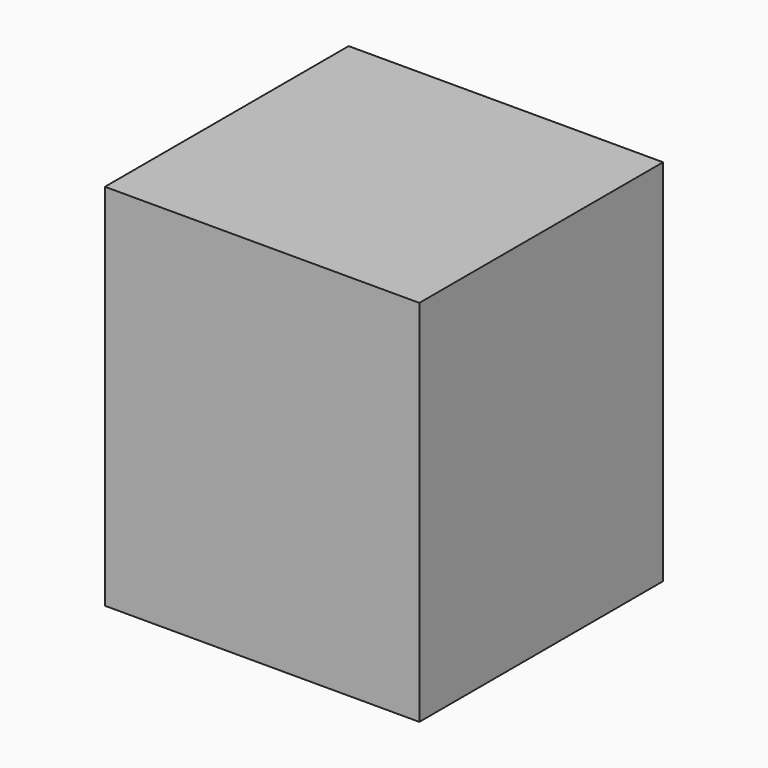
from build123d import *

# Parameters (mm, degrees)
F0_W     = 151.539155
F0_H     = 146.825336
F1_DEPTH = 177.8
F3_DEPTH = 38.1
F4_W     = 100.581736
F4_H     = 129.213843
F5_DEPTH = 25.4
F6_W     = 121.051799
F6_H     = 84.648319
F7_DEPTH = 151.892


with BuildPart() as f1:
    # F0 (on Top) → F1 (new body)
    with BuildSketch(Plane.XY):
        with Locations((27.848792, -8.894455)):
            Rectangle(F0_W, F0_H)
    extrude(amount=F1_DEPTH)

    # F2 (on face) → F3 (join)
    with BuildSketch(Plane(origin=(-47.920786, 0, 0), x_dir=(0, -1, 0), z_dir=(-1, 0, 0))):
        Polygon((31.900443, 103.963971), (-31.454742, 103.963971), (-29.357936, 0), (31.900443, 0), align=None)
    extrude(amount=-F3_DEPTH)

    # F4 (on face) → F5 (join)
    with BuildSketch(Plane.YZ.offset(103.618369)):
        with Locations((-5.59498, 90.621782)):
            Rectangle(F4_W, F4_H)
    extrude(amount=-F5_DEPTH)

    # F6 (on face) → F7 (join)
    with BuildSketch(Plane.YZ.offset(103.618369)):
        with Locations((-15.412548, 93.22397)):
            Rectangle(F6_W, F6_H)
    extrude(amount=-F7_DEPTH)


solid = f1.part
